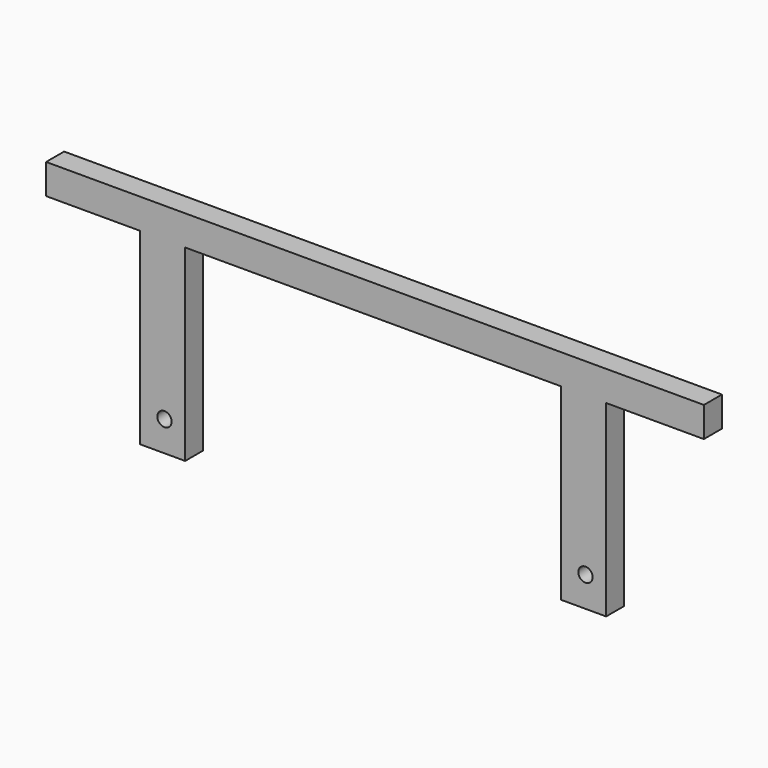
from build123d import *

# Parameters (mm, degrees)
F1_DEPTH       = 6
F2_D           = 3.7973
F2_CSINK_D     = 7.7978
F2_CSINK_ANGLE = 82


with BuildPart() as f1:
    # F0 (on Front) → F1 (new body)
    with BuildSketch(Plane.XZ):
        Polygon((-87.5, 58), (-87.5, 50), (-62.5, 50), (-62.5, 0), (-50.5, 0), (-50.5, 50), (49.5, 50), (49.5, 0), (61.5, 0), (61.5, 50), (87.5, 50), (87.5, 58), align=None)
    extrude(amount=F1_DEPTH)

    # F2 (through all)
    with Locations(Plane(origin=(0, 0, 0), x_dir=(1, 0, 0), z_dir=(0, 1, 0))):
        with Locations((-56, -8), (56, -8)):
            CounterSinkHole(F2_D / 2, F2_CSINK_D / 2, counter_sink_angle=F2_CSINK_ANGLE)


solid = f1.part
